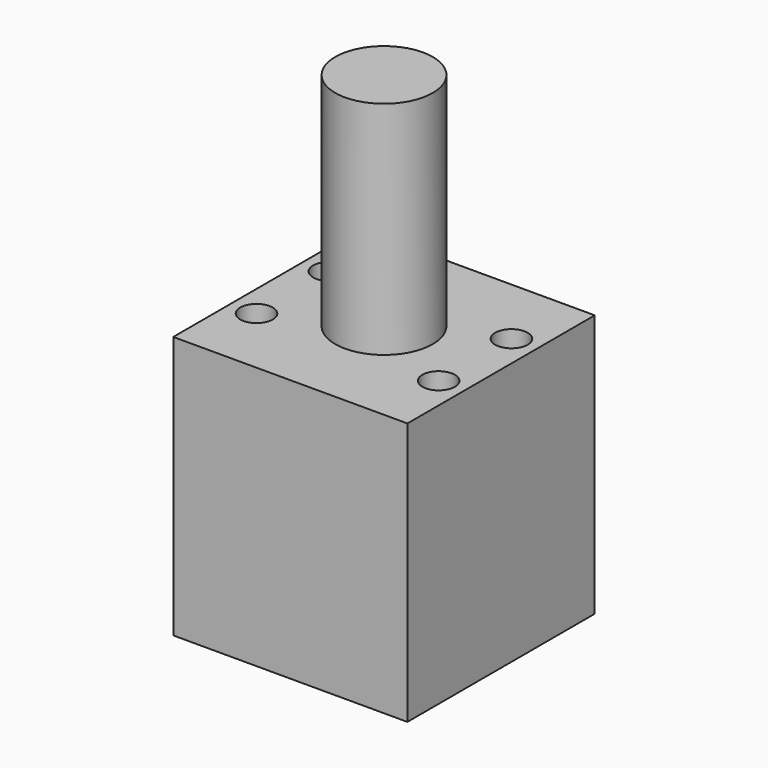
from build123d import *

# Parameters (mm, degrees)
F0_R     = 7.5
F1_DEPTH = 74.4
F0_W     = 36
F0_H     = 36
F2_DEPTH = 40.4
F4_D     = 5


with BuildPart() as f1:
    # F0 (on Top) → F1 (new body)
    with BuildSketch(Plane.XY):
        Circle(F0_R)
    extrude(amount=F1_DEPTH)

    # F0 (on Top) → F2 (join)
    with BuildSketch(Plane.XY):
        Rectangle(F0_W, F0_H)
        Circle(F0_R, mode=Mode.SUBTRACT)
    extrude(amount=F2_DEPTH)

    # F4 (through all)
    with Locations(Plane(origin=(0, 0, 0), x_dir=(1, 0, 0), z_dir=(0, 0, -1))):
        with Locations((-14, 7), (14, 7), (14, -7), (-14, -7)):
            Hole(F4_D / 2)


solid = f1.part
